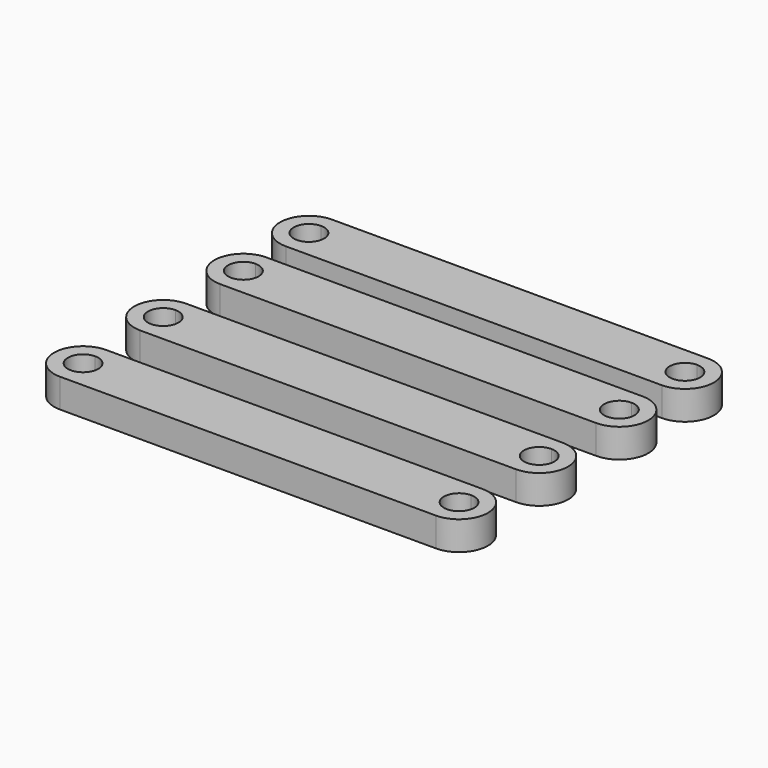
from build123d import *

# Parameters (mm, degrees)
F1_DEPTH = 5


with BuildPart() as f1:
    # F0 (on Top) → F1 (new body)
    with BuildSketch(Plane.XY):
        with BuildLine():
            Line((10.859756, 40.226706), (-54.140244, 40.226706))
            Line((-54.140244, 40.226706), (-54.140244, 37.851706))
            ThreePointArc((-54.140244, 37.851706), (-52.284089, 37.082861), (-51.515244, 35.226706))
            ThreePointArc((-51.515244, 35.226706), (-52.284089, 33.370551), (-54.140244, 32.601706))
            Line((-54.140244, 32.601706), (-54.140244, 30.226706))
            Line((-54.140244, 30.226706), (10.859756, 30.226706))
            Line((10.859756, 30.226706), (10.859756, 32.601706))
            ThreePointArc((10.859756, 32.601706), (8.234756, 35.226706), (10.859756, 37.851706))
            Line((10.859756, 37.851706), (10.859756, 40.226706))
        make_face()
        with BuildLine():
            Line((-54.140244, 37.851706), (-54.140244, 40.226706))
            ThreePointArc((-54.140244, 40.226706), (-59.140244, 35.226706), (-54.140244, 30.226706))
            Line((-54.140244, 30.226706), (-54.140244, 32.601706))
            ThreePointArc((-54.140244, 32.601706), (-56.765244, 35.226706), (-54.140244, 37.851706))
        make_face()
        with BuildLine():
            ThreePointArc((10.859756, 30.226706), (15.859756, 35.226706), (10.859756, 40.226706))
            Line((10.859756, 40.226706), (10.859756, 37.851706))
            ThreePointArc((10.859756, 37.851706), (12.715911, 37.082861), (13.484756, 35.226706))
            ThreePointArc((13.484756, 35.226706), (12.715911, 33.370551), (10.859756, 32.601706))
            Line((10.859756, 32.601706), (10.859756, 30.226706))
        make_face()
        with BuildLine():
            Line((10.859756, 26.057158), (-54.140244, 26.057158))
            Line((-54.140244, 26.057158), (-54.140244, 23.682158))
            ThreePointArc((-54.140244, 23.682158), (-52.284089, 22.913313), (-51.515244, 21.057158))
            ThreePointArc((-51.515244, 21.057158), (-52.284089, 19.201002), (-54.140244, 18.432158))
            Line((-54.140244, 18.432158), (-54.140244, 16.057158))
            Line((-54.140244, 16.057158), (10.859756, 16.057158))
            Line((10.859756, 16.057158), (10.859756, 18.432158))
            ThreePointArc((10.859756, 18.432158), (8.234756, 21.057158), (10.859756, 23.682158))
            Line((10.859756, 23.682158), (10.859756, 26.057158))
        make_face()
        with BuildLine():
            Line((-54.140244, 23.682158), (-54.140244, 26.057158))
            ThreePointArc((-54.140244, 26.057158), (-59.140244, 21.057158), (-54.140244, 16.057158))
            Line((-54.140244, 16.057158), (-54.140244, 18.432158))
            ThreePointArc((-54.140244, 18.432158), (-56.765244, 21.057158), (-54.140244, 23.682158))
        make_face()
        with BuildLine():
            ThreePointArc((10.859756, 16.057158), (15.859756, 21.057158), (10.859756, 26.057158))
            Line((10.859756, 26.057158), (10.859756, 23.682158))
            ThreePointArc((10.859756, 23.682158), (12.715911, 22.913313), (13.484756, 21.057158))
            ThreePointArc((13.484756, 21.057158), (12.715911, 19.201002), (10.859756, 18.432158))
            Line((10.859756, 18.432158), (10.859756, 16.057158))
        make_face()
        with BuildLine():
            Line((10.859756, 8.738818), (-54.140244, 8.738818))
            Line((-54.140244, 8.738818), (-54.140244, 6.363818))
            ThreePointArc((-54.140244, 6.363818), (-52.284089, 5.594973), (-51.515244, 3.738818))
            ThreePointArc((-51.515244, 3.738818), (-52.284089, 1.882663), (-54.140244, 1.113818))
            Line((-54.140244, 1.113818), (-54.140244, -1.261182))
            Line((-54.140244, -1.261182), (10.859756, -1.261182))
            Line((10.859756, -1.261182), (10.859756, 1.113818))
            ThreePointArc((10.859756, 1.113818), (8.234756, 3.738818), (10.859756, 6.363818))
            Line((10.859756, 6.363818), (10.859756, 8.738818))
        make_face()
        with BuildLine():
            Line((-54.140244, 6.363818), (-54.140244, 8.738818))
            ThreePointArc((-54.140244, 8.738818), (-59.140244, 3.738818), (-54.140244, -1.261182))
            Line((-54.140244, -1.261182), (-54.140244, 1.113818))
            ThreePointArc((-54.140244, 1.113818), (-56.765244, 3.738818), (-54.140244, 6.363818))
        make_face()
        with BuildLine():
            ThreePointArc((10.859756, -1.261182), (15.859756, 3.738818), (10.859756, 8.738818))
            Line((10.859756, 8.738818), (10.859756, 6.363818))
            ThreePointArc((10.859756, 6.363818), (12.715911, 5.594973), (13.484756, 3.738818))
            ThreePointArc((13.484756, 3.738818), (12.715911, 1.882663), (10.859756, 1.113818))
            Line((10.859756, 1.113818), (10.859756, -1.261182))
        make_face()
        with BuildLine():
            Line((10.859756, -8.57952), (-54.140244, -8.57952))
            Line((-54.140244, -8.57952), (-54.140244, -10.95452))
            ThreePointArc((-54.140244, -10.95452), (-52.284089, -11.723365), (-51.515244, -13.57952))
            ThreePointArc((-51.515244, -13.57952), (-52.284089, -15.435676), (-54.140244, -16.20452))
            Line((-54.140244, -16.20452), (-54.140244, -18.57952))
            Line((-54.140244, -18.57952), (10.859756, -18.57952))
            Line((10.859756, -18.57952), (10.859756, -16.20452))
            ThreePointArc((10.859756, -16.20452), (8.234756, -13.57952), (10.859756, -10.95452))
            Line((10.859756, -10.95452), (10.859756, -8.57952))
        make_face()
        with BuildLine():
            Line((-54.140244, -10.95452), (-54.140244, -8.57952))
            ThreePointArc((-54.140244, -8.57952), (-59.140244, -13.57952), (-54.140244, -18.57952))
            Line((-54.140244, -18.57952), (-54.140244, -16.20452))
            ThreePointArc((-54.140244, -16.20452), (-56.765244, -13.57952), (-54.140244, -10.95452))
        make_face()
        with BuildLine():
            ThreePointArc((10.859756, -18.57952), (15.859756, -13.57952), (10.859756, -8.57952))
            Line((10.859756, -8.57952), (10.859756, -10.95452))
            ThreePointArc((10.859756, -10.95452), (12.715911, -11.723365), (13.484756, -13.57952))
            ThreePointArc((13.484756, -13.57952), (12.715911, -15.435676), (10.859756, -16.20452))
            Line((10.859756, -16.20452), (10.859756, -18.57952))
        make_face()
    extrude(amount=F1_DEPTH)


solid = f1.part
